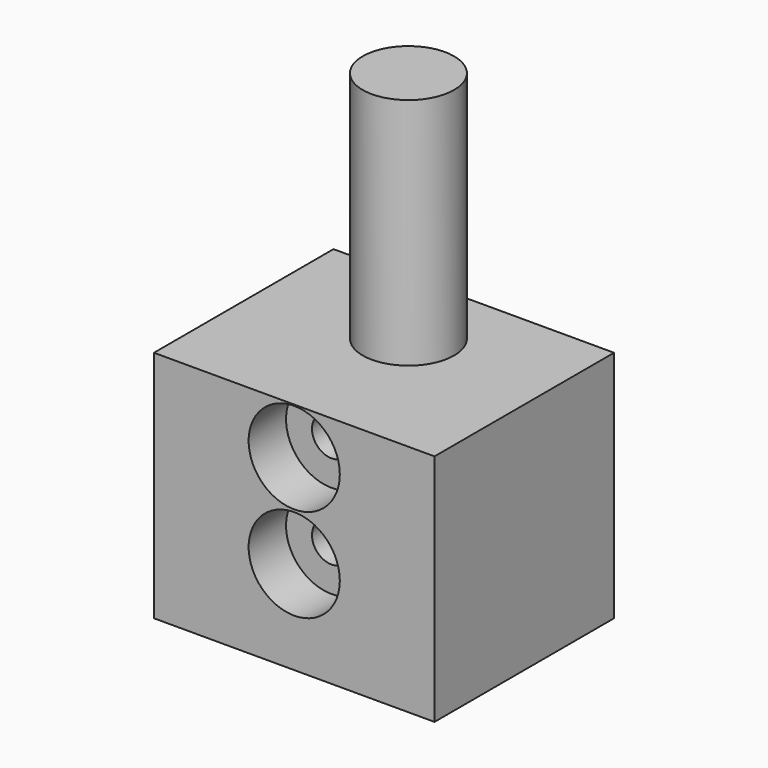
from build123d import *

# Parameters (mm, degrees)
F0_W           = 30
F0_H           = 24
F1_DEPTH       = 25
F3_D           = 4.2
F3_CBORE_D     = 9.75
F3_CBORE_DEPTH = 5
F4_R           = 4.8868240238
F5_DEPTH       = 25


with BuildPart() as f1:
    # F0 (on Top) → F1 (new body)
    with BuildSketch(Plane.XY):
        with Locations((15, -12)):
            Rectangle(F0_W, F0_H)
    extrude(amount=F1_DEPTH)

    # F3 (through all)
    with Locations(Plane.XZ.offset(24)):
        with Locations((15, 20), (15, 10)):
            CounterBoreHole(F3_D / 2, F3_CBORE_D / 2, F3_CBORE_DEPTH)

    # F4 (on face) → F5 (join)
    with BuildSketch(Plane.XY.offset(25)):
        with Locations((15, -8.7359920144)):
            Circle(F4_R)
    extrude(amount=F5_DEPTH)


solid = f1.part
